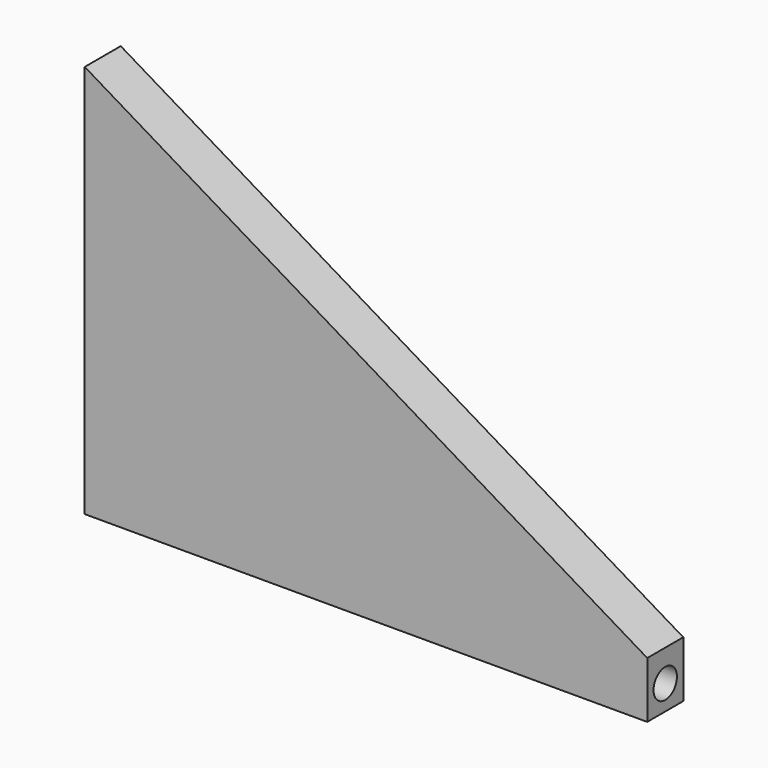
from build123d import *

# Parameters (mm, degrees)
F1_DEPTH = 8
F2_R     = 2.6
F3_DEPTH = 30


with BuildPart() as f1:
    # F0 (on Front) → F1 (new body)
    with BuildSketch(Plane.XZ):
        Polygon((-100, 0), (0, 0), (0, 10), (-100, 70), align=None)
    extrude(amount=F1_DEPTH)

    # F2 (on face) → F3 (cut)
    with BuildSketch(Plane.YZ):
        with Locations((-4, 4.403343)):
            Circle(F2_R)
    extrude(amount=-F3_DEPTH, mode=Mode.SUBTRACT)


solid = f1.part
